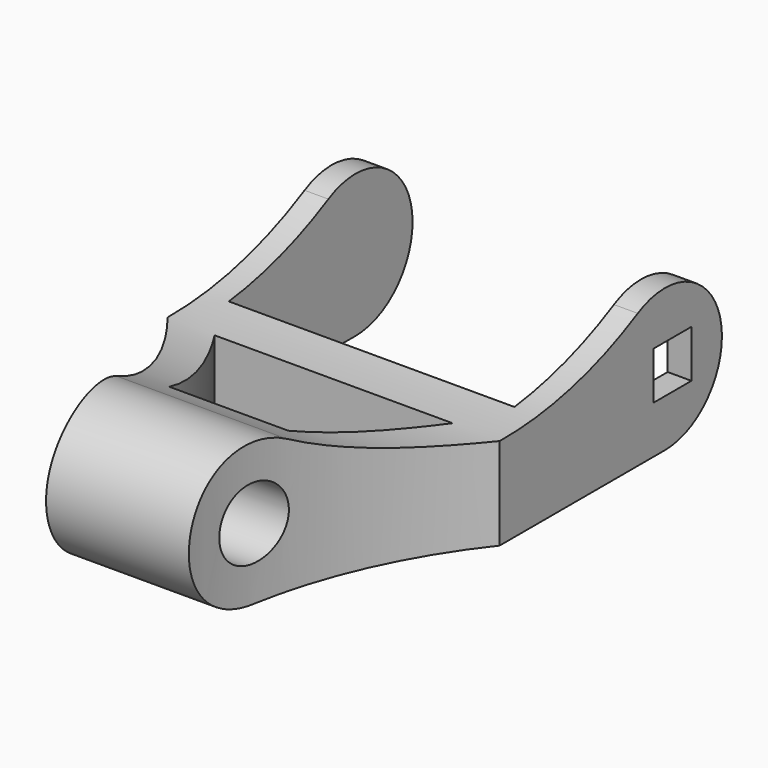
from build123d import *

# Parameters (mm, degrees)
SKETCH_R        = 7.5
PAD_DEPTH       = 70
SKETCH001_W     = 60
SKETCH001_H     = 48.25
POCKET_DEPTH    = 30
POCKET001_DEPTH = 50
POCKET002_DEPTH = 50
SKETCH004_W     = 10
SKETCH004_H     = 10
POCKET003_DEPTH = 5


with BuildPart() as part:
    # Sketch → Pad (new body)
    with BuildSketch(Plane.YZ):
        with BuildLine():
            ThreePointArc((-36.4599581718, 13.2911850247), (-57.9795050803, 3.5799598665), (-43.412972048, -15))
            Line((-43.412972048, -15), (41.5884017265, -15))
            ThreePointArc((41.5884017265, -15), (56.1336656173, 3.6654186747), (34.479804051, 13.2086275283))
            ThreePointArc((-36.4599581718, 13.2911850247), (-1.0004550601, 4.3323292657), (34.479804051, 13.2086275283))
        make_face()
        with Locations((-43.4129719528, 0)):
            Circle(SKETCH_R, mode=Mode.SUBTRACT)
    extrude(amount=PAD_DEPTH)

    # Sketch001 → Pocket (cut)
    with BuildSketch(Plane.XY.offset(15)):
        with Locations((35, 32.465)):
            Rectangle(SKETCH001_W, SKETCH001_H)
    extrude(amount=-POCKET_DEPTH, mode=Mode.SUBTRACT)

    # Sketch002 → Pocket001 (cut)
    with BuildSketch(Plane(origin=(3, -0.1, -20), x_dir=(1, 0, 0), z_dir=(0, 0, 1))):
        with BuildLine():
            ThreePointArc((17, -58.6013099487), (11.7906635923, -28.3224370767), (-3, -1.3932039145))
            Line((-3, -1.3932039145), (-3, -58.6013099487))
            Line((-3, -58.6013099487), (17, -58.6013099487))
        make_face()
        with BuildLine():
            ThreePointArc((67.0222612126, -1.66), (52.2953112485, -28.3670320419), (47, -58.4021497296))
            Line((66.999998461, -58.4099956332), (47, -58.4021497296))
            Line((67.0222612126, -1.66), (66.999998461, -58.4099956332))
        make_face()
    extrude(amount=POCKET001_DEPTH, mode=Mode.SUBTRACT)

    # Sketch003 → Pocket002 (cut)
    with BuildSketch(Plane.XY.offset(20)):
        with BuildLine():
            Line((10, -1.66), (60, -1.66))
            ThreePointArc((60, -1.66), (52.3618075612, -14.5061818768), (46.88, -28.41))
            Line((21.88, -28.41), (46.88, -28.41))
            ThreePointArc((21.88, -28.41), (16.9989570858, -14.5647042924), (10, -1.66))
        make_face()
    extrude(amount=-POCKET002_DEPTH, mode=Mode.SUBTRACT)

    # Sketch004 → Pocket003 (cut)
    with BuildSketch(Plane.YZ.offset(70)):
        with Locations((43.59, 0)):
            Rectangle(SKETCH004_W, SKETCH004_H)
    extrude(amount=-POCKET003_DEPTH, mode=Mode.SUBTRACT)


solid = part.part
